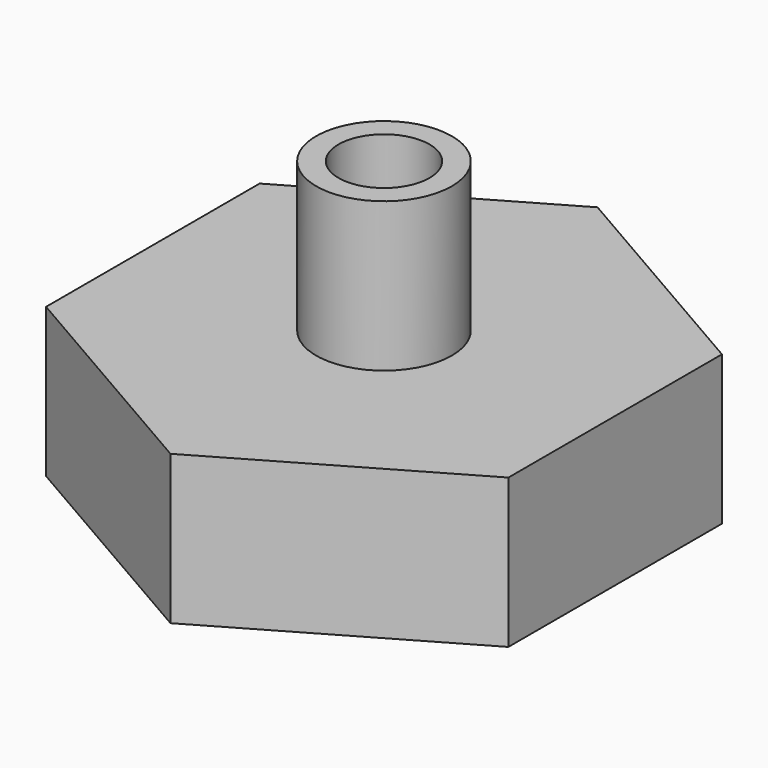
from build123d import *

# Parameters (mm, degrees)
F1_DEPTH = 10
F2_R     = 4.55
F3_DEPTH = 10
F4_T     = -1.5


with BuildPart() as f1:
    # F0 (on Top) → F1 (new body)
    with BuildSketch(Plane.XY):
        Polygon((-15.5018547277, -8.95), (0, -17.9), (15.5018547277, -8.95), (15.5018547277, 8.95), (0, 17.9), (-15.5018547277, 8.95), align=None)
    extrude(amount=F1_DEPTH)

    # F2 (on face) → F3 (join, symmetric)
    with BuildSketch(Plane.XY.offset(10)):
        Circle(F2_R)
    extrude(amount=F3_DEPTH, both=True)

    # F4
    f4_openings = [f1.faces().sort_by_distance(p)[0] for p in [
        (0, 0, 0),
        (0, 0, 20),
    ]]
    offset(amount=F4_T, openings=f4_openings, kind=Kind.INTERSECTION)


solid = f1.part
